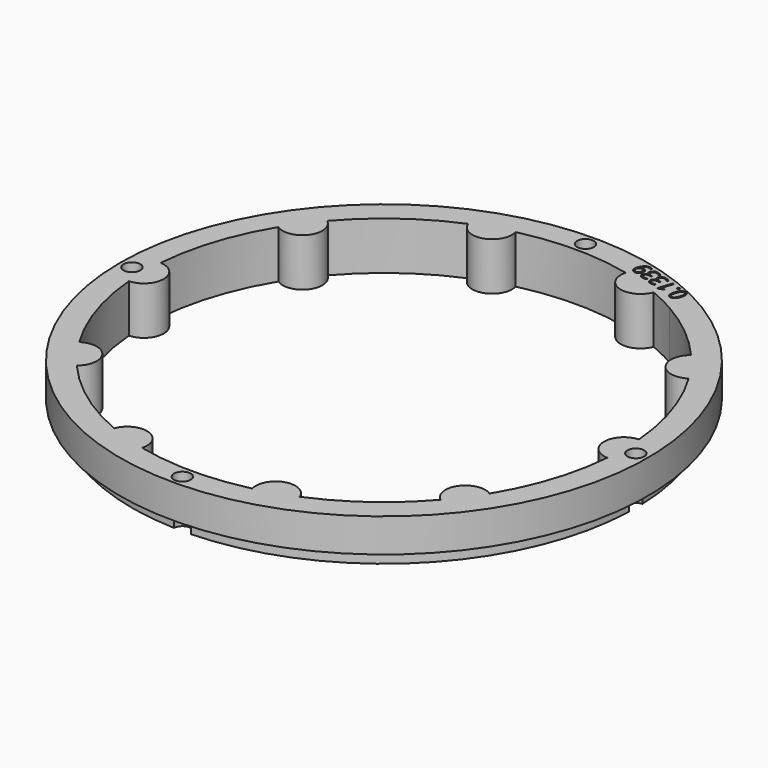
from build123d import *

# Parameters (mm, degrees)
SKETCH054_R             = 55
PAD015_DEPTH            = 10
POLARPATTERN005_COUNT   = 10
SKETCH055_R             = 55
SKETCH055_R_2           = 52.5
POCKET027_DEPTH         = 3
SKETCH056_R             = 1.75
POCKET028_DEPTH         = 321.770146
POCKET028_DEPTH_BACK    = 311.770146
POLARPATTERN006_COUNT   = 4
POCKET035_DEPTH         = 2
BODY003_ROLL_ANGLE      = 90
BODY003_PLACEMENT_ANGLE = -180


with BuildPart() as part:
    # Sketch054 → Pad015 (new body)
    with BuildSketch(Plane.XZ):
        Circle(SKETCH054_R)
        with BuildLine():
            ThreePointArc((49.831033, 4.107083), (-49.999996, 0.01996), (49.827738, -4.146866))
            ThreePointArc((49.831033, 4.107083), (45.869496, -0.018311), (49.827738, -4.146866))
        make_face(mode=Mode.SUBTRACT)
    pad015 = extrude(amount=PAD015_DEPTH)

    # PolarPattern005: Pad015 ×10 about axis
    polarpattern005_axis = Axis((0, 0, 0), (0, -1, 0))
    for i in range(1, POLARPATTERN005_COUNT):
        add(pad015.rotate(polarpattern005_axis, i * 360 / POLARPATTERN005_COUNT))

    # Sketch055 (on DatumPlane) → Pocket027 (cut)
    with BuildSketch(Plane.XZ.offset(10)):
        Circle(SKETCH055_R)
        Circle(SKETCH055_R_2, mode=Mode.SUBTRACT)
    extrude(amount=-POCKET027_DEPTH, mode=Mode.SUBTRACT)

    # Sketch056 (on DatumPlane) → Pocket028 (cut, two sides)
    with BuildSketch(Plane.XZ.offset(10)) as pocket028_sk:
        with Locations((52.5, 0)):
            Circle(SKETCH056_R)
    pocket028 = extrude(amount=-POCKET028_DEPTH, mode=Mode.SUBTRACT) + extrude(pocket028_sk.sketch, amount=POCKET028_DEPTH_BACK, mode=Mode.SUBTRACT)

    # PolarPattern006: Pocket028 ×4 about axis
    polarpattern006_axis = Axis((0, -10, 0), (0, -1, 0))
    for i in range(1, POLARPATTERN006_COUNT):
        add(pocket028.rotate(polarpattern006_axis, i * 360 / POLARPATTERN006_COUNT), mode=Mode.SUBTRACT)

    # Sketch069 (on Face2 of PolarPattern006) → Pocket035 (cut)
    with BuildSketch(Plane(origin=(0, 0, 0), x_dir=(1, 0, 0), z_dir=(0, 1, 0))):
        with BuildLine():
            add(Edge.make_bspline(
                [(-21.961227, -48.249164), (-22.074236, -48.596972), (-22.215771, -48.853462)],
                knots=[0, 0, 0, 1, 1, 1], degree=2))
            add(Edge.make_bspline(
                [(-22.215771, -48.853462), (-22.357264, -49.109822), (-22.531956, -49.262712)],
                knots=[0, 0, 0, 1, 1, 1], degree=2))
            add(Edge.make_bspline(
                [(-22.531956, -49.262712), (-22.706605, -49.415472), (-22.918021, -49.455843)],
                knots=[0, 0, 0, 1, 1, 1], degree=2))
            add(Edge.make_bspline(
                [(-22.918021, -49.455843), (-23.129437, -49.496214), (-23.380935, -49.414498)],
                knots=[0, 0, 0, 1, 1, 1], degree=2))
            add(Edge.make_bspline(
                [(-23.380935, -49.414498), (-23.698719, -49.311243), (-23.849911, -49.069854)],
                knots=[0, 0, 0, 1, 1, 1], degree=2))
            add(Edge.make_bspline(
                [(-23.849911, -49.069854), (-24.000973, -48.828508), (-23.996422, -48.466008)],
                knots=[0, 0, 0, 1, 1, 1], degree=2))
            add(Edge.make_bspline(
                [(-23.996422, -48.466008), (-23.99174, -48.103551), (-23.840638, -47.638507)],
                knots=[0, 0, 0, 1, 1, 1], degree=2))
            add(Edge.make_bspline(
                [(-23.840638, -47.638507), (-23.692112, -47.181391), (-23.492601, -46.882238)],
                knots=[0, 0, 0, 1, 1, 1], degree=2))
            add(Edge.make_bspline(
                [(-23.492601, -46.882238), (-23.292959, -46.583127), (-23.028868, -46.47351)],
                knots=[0, 0, 0, 1, 1, 1], degree=2))
            add(Edge.make_bspline(
                [(-23.028868, -46.47351), (-22.764734, -46.363764), (-22.425505, -46.473986)],
                knots=[0, 0, 0, 1, 1, 1], degree=2))
            add(Edge.make_bspline(
                [(-22.425505, -46.473986), (-22.103821, -46.578507), (-21.952057, -46.821232)],
                knots=[0, 0, 0, 1, 1, 1], degree=2))
            add(Edge.make_bspline(
                [(-21.952057, -46.821232), (-21.800251, -47.063826), (-21.805842, -47.425988)],
                knots=[0, 0, 0, 1, 1, 1], degree=2))
            add(Edge.make_bspline(
                [(-21.805842, -47.425988), (-21.811434, -47.78815), (-21.961227, -48.249164)],
                knots=[0, 0, 0, 1, 1, 1], degree=2))
        make_face()
        with BuildLine():
            add(Edge.make_bspline(
                [(-23.515055, -47.744295), (-23.644662, -48.143182), (-23.670628, -48.428745)],
                knots=[0, 0, 0, 1, 1, 1], degree=2))
            add(Edge.make_bspline(
                [(-23.670628, -48.428745), (-23.696553, -48.714177), (-23.603985, -48.890104)],
                knots=[0, 0, 0, 1, 1, 1], degree=2))
            add(Edge.make_bspline(
                [(-23.603985, -48.890104), (-23.511288, -49.066074), (-23.290983, -49.137655)],
                knots=[0, 0, 0, 1, 1, 1], degree=2))
            add(Edge.make_bspline(
                [(-23.290983, -49.137655), (-23.070679, -49.209236), (-22.89272, -49.122358)],
                knots=[0, 0, 0, 1, 1, 1], degree=2))
            add(Edge.make_bspline(
                [(-22.89272, -49.122358), (-22.71459, -49.035392), (-22.56688, -48.78953)],
                knots=[0, 0, 0, 1, 1, 1], degree=2))
            add(Edge.make_bspline(
                [(-22.56688, -48.78953), (-22.418999, -48.54358), (-22.288759, -48.142743)],
                knots=[0, 0, 0, 1, 1, 1], degree=2))
            add(Edge.make_bspline(
                [(-22.288759, -48.142743), (-22.161095, -47.749834), (-22.135509, -47.465442)],
                knots=[0, 0, 0, 1, 1, 1], degree=2))
            add(Edge.make_bspline(
                [(-22.135509, -47.465442), (-22.10988, -47.180919), (-22.200904, -47.003338)],
                knots=[0, 0, 0, 1, 1, 1], degree=2))
            add(Edge.make_bspline(
                [(-22.200904, -47.003338), (-22.291886, -46.825627), (-22.51609, -46.752778)],
                knots=[0, 0, 0, 1, 1, 1], degree=2))
            add(Edge.make_bspline(
                [(-22.51609, -46.752778), (-22.740293, -46.67993), (-22.918356, -46.770224)],
                knots=[0, 0, 0, 1, 1, 1], degree=2))
            add(Edge.make_bspline(
                [(-22.918356, -46.770224), (-23.096375, -46.860387), (-23.24197, -47.105931)],
                knots=[0, 0, 0, 1, 1, 1], degree=2))
            add(Edge.make_bspline(
                [(-23.24197, -47.105931), (-23.387391, -47.351386), (-23.515055, -47.744295)],
                knots=[0, 0, 0, 1, 1, 1], degree=2))
        make_face(mode=Mode.SUBTRACT)
        with BuildLine():
            add(Edge.make_bspline(
                [(-21.862883, -49.618629), (-21.818541, -49.482157), (-21.733588, -49.446247)],
                knots=[0, 0, 0, 1, 1, 1], degree=2))
            add(Edge.make_bspline(
                [(-21.733588, -49.446247), (-21.648594, -49.410206), (-21.553064, -49.441246)],
                knots=[0, 0, 0, 1, 1, 1], degree=2))
            add(Edge.make_bspline(
                [(-21.553064, -49.441246), (-21.453634, -49.473553), (-21.404106, -49.553302)],
                knots=[0, 0, 0, 1, 1, 1], degree=2))
            add(Edge.make_bspline(
                [(-21.404106, -49.553302), (-21.354537, -49.632921), (-21.398879, -49.769393)],
                knots=[0, 0, 0, 1, 1, 1], degree=2))
            add(Edge.make_bspline(
                [(-21.398879, -49.769393), (-21.442588, -49.903915), (-21.530799, -49.943221)],
                knots=[0, 0, 0, 1, 1, 1], degree=2))
            add(Edge.make_bspline(
                [(-21.530799, -49.943221), (-21.618968, -49.982397), (-21.718397, -49.950091)],
                knots=[0, 0, 0, 1, 1, 1], degree=2))
            add(Edge.make_bspline(
                [(-21.718397, -49.950091), (-21.813927, -49.919051), (-21.860281, -49.836166)],
                knots=[0, 0, 0, 1, 1, 1], degree=2))
            add(Edge.make_bspline(
                [(-21.860281, -49.836166), (-21.906592, -49.753151), (-21.862883, -49.618629)],
                knots=[0, 0, 0, 1, 1, 1], degree=2))
        make_face()
        with BuildLine():
            Line((-19.776238, -50.537453), (-20.092073, -50.434832))
            Line((-20.092073, -50.434832), (-19.435046, -48.412711))
            add(Edge.make_bspline(
                [(-19.435046, -48.412711), (-19.397629, -48.297555), (-19.369776, -48.214927)],
                knots=[0, 0, 0, 1, 1, 1], degree=2))
            add(Edge.make_bspline(
                [(-19.369776, -48.214927), (-19.341793, -48.132342), (-19.316425, -48.063996)],
                knots=[0, 0, 0, 1, 1, 1], degree=2))
            add(Edge.make_bspline(
                [(-19.316425, -48.063996), (-19.290926, -47.995691), (-19.261597, -47.925327)],
                knots=[0, 0, 0, 1, 1, 1], degree=2))
            add(Edge.make_bspline(
                [(-19.261597, -47.925327), (-19.342305, -47.968076), (-19.409219, -47.994904)],
                knots=[0, 0, 0, 1, 1, 1], degree=2))
            add(Edge.make_bspline(
                [(-19.409219, -47.994904), (-19.476132, -48.021731), (-19.57502, -48.06073)],
                knots=[0, 0, 0, 1, 1, 1], degree=2))
            Line((-19.57502, -48.06073), (-19.985529, -48.216317))
            Line((-19.985529, -48.216317), (-20.083562, -47.940902))
            Line((-20.083562, -47.940902), (-19.118232, -47.596866))
            Line((-19.118232, -47.596866), (-18.849187, -47.684284))
            Line((-18.849187, -47.684284), (-19.776238, -50.537453))
        make_face()
        with BuildLine():
            add(Edge.make_bspline(
                [(-16.22887, -49.272256), (-16.291329, -49.464486), (-16.411276, -49.581565)],
                knots=[0, 0, 0, 1, 1, 1], degree=2))
            add(Edge.make_bspline(
                [(-16.411276, -49.581565), (-16.531224, -49.698644), (-16.692809, -49.74486)],
                knots=[0, 0, 0, 1, 1, 1], degree=2))
            add(Edge.make_bspline(
                [(-16.692809, -49.74486), (-16.854352, -49.790946), (-17.045201, -49.768021)],
                knots=[0, 0, 0, 1, 1, 1], degree=2))
            Line((-17.045201, -49.768021), (-17.050269, -49.783617))
            add(Edge.make_bspline(
                [(-17.050269, -49.783617), (-16.724975, -49.936731), (-16.611547, -50.167861)],
                knots=[0, 0, 0, 1, 1, 1], degree=2))
            add(Edge.make_bspline(
                [(-16.611547, -50.167861), (-16.497988, -50.399034), (-16.5906, -50.684065)],
                knots=[0, 0, 0, 1, 1, 1], degree=2))
            add(Edge.make_bspline(
                [(-16.5906, -50.684065), (-16.671177, -50.932054), (-16.849406, -51.085662)],
                knots=[0, 0, 0, 1, 1, 1], degree=2))
            add(Edge.make_bspline(
                [(-16.849406, -51.085662), (-17.027506, -51.239313), (-17.301617, -51.27009)],
                knots=[0, 0, 0, 1, 1, 1], degree=2))
            add(Edge.make_bspline(
                [(-17.301617, -51.27009), (-17.575556, -51.300779), (-17.947929, -51.179788)],
                knots=[0, 0, 0, 1, 1, 1], degree=2))
            add(Edge.make_bspline(
                [(-17.947929, -51.179788), (-18.174082, -51.106307), (-18.354442, -51.007757)],
                knots=[0, 0, 0, 1, 1, 1], degree=2))
            add(Edge.make_bspline(
                [(-18.354442, -51.007757), (-18.534715, -50.909379), (-18.68294, -50.768535)],
                knots=[0, 0, 0, 1, 1, 1], degree=2))
            Line((-18.68294, -50.768535), (-18.584119, -50.464398))
            add(Edge.make_bspline(
                [(-18.584119, -50.464398), (-18.435212, -50.609775), (-18.24278, -50.727335)],
                knots=[0, 0, 0, 1, 1, 1], degree=2))
            add(Edge.make_bspline(
                [(-18.24278, -50.727335), (-18.050305, -50.844765), (-17.855345, -50.908112)],
                knots=[0, 0, 0, 1, 1, 1], degree=2))
            add(Edge.make_bspline(
                [(-17.855345, -50.908112), (-17.465426, -51.034804), (-17.241446, -50.935864)],
                knots=[0, 0, 0, 1, 1, 1], degree=2))
            add(Edge.make_bspline(
                [(-17.241446, -50.935864), (-17.017466, -50.836925), (-16.929922, -50.56749)],
                knots=[0, 0, 0, 1, 1, 1], degree=2))
            add(Edge.make_bspline(
                [(-16.929922, -50.56749), (-16.869616, -50.381889), (-16.929065, -50.236265)],
                knots=[0, 0, 0, 1, 1, 1], degree=2))
            add(Edge.make_bspline(
                [(-16.929065, -50.236265), (-16.988384, -50.090683), (-17.151346, -49.978388)],
                knots=[0, 0, 0, 1, 1, 1], degree=2))
            add(Edge.make_bspline(
                [(-17.151346, -49.978388), (-17.314135, -49.866005), (-17.567582, -49.783655)],
                knots=[0, 0, 0, 1, 1, 1], degree=2))
            Line((-17.567582, -49.783655), (-17.852223, -49.691169))
            Line((-17.852223, -49.691169), (-17.762272, -49.414327))
            Line((-17.762272, -49.414327), (-17.475681, -49.507446))
            add(Edge.make_bspline(
                [(-17.475681, -49.507446), (-17.243679, -49.582828), (-17.059522, -49.566649)],
                knots=[0, 0, 0, 1, 1, 1], degree=2))
            add(Edge.make_bspline(
                [(-17.059522, -49.566649), (-16.875324, -49.550341), (-16.750039, -49.453101)],
                knots=[0, 0, 0, 1, 1, 1], degree=2))
            add(Edge.make_bspline(
                [(-16.750039, -49.453101), (-16.624625, -49.355904), (-16.56905, -49.184859)],
                knots=[0, 0, 0, 1, 1, 1], degree=2))
            add(Edge.make_bspline(
                [(-16.56905, -49.184859), (-16.498186, -48.966764), (-16.603815, -48.800963)],
                knots=[0, 0, 0, 1, 1, 1], degree=2))
            add(Edge.make_bspline(
                [(-16.603815, -48.800963), (-16.709444, -48.635161), (-16.957043, -48.554711)],
                knots=[0, 0, 0, 1, 1, 1], degree=2))
            add(Edge.make_bspline(
                [(-16.957043, -48.554711), (-17.109112, -48.505301), (-17.244021, -48.495953)],
                knots=[0, 0, 0, 1, 1, 1], degree=2))
            add(Edge.make_bspline(
                [(-17.244021, -48.495953), (-17.378931, -48.486605), (-17.505845, -48.50572)],
                knots=[0, 0, 0, 1, 1, 1], degree=2))
            add(Edge.make_bspline(
                [(-17.505845, -48.50572), (-17.632759, -48.524835), (-17.765375, -48.561496)],
                knots=[0, 0, 0, 1, 1, 1], degree=2))
            Line((-17.765375, -48.561496), (-17.856926, -48.286031))
            add(Edge.make_bspline(
                [(-17.856926, -48.286031), (-17.661684, -48.215833), (-17.408975, -48.20095)],
                knots=[0, 0, 0, 1, 1, 1], degree=2))
            add(Edge.make_bspline(
                [(-17.408975, -48.20095), (-17.156265, -48.186066), (-16.871624, -48.278551)],
                knots=[0, 0, 0, 1, 1, 1], degree=2))
            add(Edge.make_bspline(
                [(-16.871624, -48.278551), (-16.434914, -48.420447), (-16.281553, -48.691423)],
                knots=[0, 0, 0, 1, 1, 1], degree=2))
            add(Edge.make_bspline(
                [(-16.281553, -48.691423), (-16.128191, -48.9624), (-16.22887, -49.272256)],
                knots=[0, 0, 0, 1, 1, 1], degree=2))
        make_face()
        with BuildLine():
            add(Edge.make_bspline(
                [(-13.949661, -50.012815), (-14.012121, -50.205045), (-14.132068, -50.322125)],
                knots=[0, 0, 0, 1, 1, 1], degree=2))
            add(Edge.make_bspline(
                [(-14.132068, -50.322125), (-14.252015, -50.439204), (-14.4136, -50.48542)],
                knots=[0, 0, 0, 1, 1, 1], degree=2))
            add(Edge.make_bspline(
                [(-14.4136, -50.48542), (-14.575143, -50.531506), (-14.765993, -50.50858)],
                knots=[0, 0, 0, 1, 1, 1], degree=2))
            Line((-14.765993, -50.50858), (-14.771061, -50.524177))
            add(Edge.make_bspline(
                [(-14.771061, -50.524177), (-14.445767, -50.677291), (-14.332338, -50.908421)],
                knots=[0, 0, 0, 1, 1, 1], degree=2))
            add(Edge.make_bspline(
                [(-14.332338, -50.908421), (-14.21878, -51.139594), (-14.311392, -51.424625)],
                knots=[0, 0, 0, 1, 1, 1], degree=2))
            add(Edge.make_bspline(
                [(-14.311392, -51.424625), (-14.391968, -51.672613), (-14.570198, -51.826222)],
                knots=[0, 0, 0, 1, 1, 1], degree=2))
            add(Edge.make_bspline(
                [(-14.570198, -51.826222), (-14.748298, -51.979872), (-15.022409, -52.01065)],
                knots=[0, 0, 0, 1, 1, 1], degree=2))
            add(Edge.make_bspline(
                [(-15.022409, -52.01065), (-15.296348, -52.041339), (-15.668721, -51.920348)],
                knots=[0, 0, 0, 1, 1, 1], degree=2))
            add(Edge.make_bspline(
                [(-15.668721, -51.920348), (-15.894874, -51.846866), (-16.075234, -51.748317)],
                knots=[0, 0, 0, 1, 1, 1], degree=2))
            add(Edge.make_bspline(
                [(-16.075234, -51.748317), (-16.255506, -51.649939), (-16.403731, -51.509095)],
                knots=[0, 0, 0, 1, 1, 1], degree=2))
            Line((-16.403731, -51.509095), (-16.304911, -51.204958))
            add(Edge.make_bspline(
                [(-16.304911, -51.204958), (-16.156004, -51.350335), (-15.963571, -51.467895)],
                knots=[0, 0, 0, 1, 1, 1], degree=2))
            add(Edge.make_bspline(
                [(-15.963571, -51.467895), (-15.771097, -51.585325), (-15.576137, -51.648671)],
                knots=[0, 0, 0, 1, 1, 1], degree=2))
            add(Edge.make_bspline(
                [(-15.576137, -51.648671), (-15.186218, -51.775364), (-14.962238, -51.676424)],
                knots=[0, 0, 0, 1, 1, 1], degree=2))
            add(Edge.make_bspline(
                [(-14.962238, -51.676424), (-14.738258, -51.577484), (-14.650713, -51.30805)],
                knots=[0, 0, 0, 1, 1, 1], degree=2))
            add(Edge.make_bspline(
                [(-14.650713, -51.30805), (-14.590408, -51.122448), (-14.649857, -50.976825)],
                knots=[0, 0, 0, 1, 1, 1], degree=2))
            add(Edge.make_bspline(
                [(-14.649857, -50.976825), (-14.709176, -50.831243), (-14.872137, -50.718948)],
                knots=[0, 0, 0, 1, 1, 1], degree=2))
            add(Edge.make_bspline(
                [(-14.872137, -50.718948), (-15.034926, -50.606565), (-15.288374, -50.524215)],
                knots=[0, 0, 0, 1, 1, 1], degree=2))
            Line((-15.288374, -50.524215), (-15.573015, -50.431729))
            Line((-15.573015, -50.431729), (-15.483063, -50.154886))
            Line((-15.483063, -50.154886), (-15.196473, -50.248005))
            add(Edge.make_bspline(
                [(-15.196473, -50.248005), (-14.964471, -50.323387), (-14.780314, -50.307209)],
                knots=[0, 0, 0, 1, 1, 1], degree=2))
            add(Edge.make_bspline(
                [(-14.780314, -50.307209), (-14.596115, -50.290901), (-14.470831, -50.193661)],
                knots=[0, 0, 0, 1, 1, 1], degree=2))
            add(Edge.make_bspline(
                [(-14.470831, -50.193661), (-14.345417, -50.096463), (-14.289841, -49.925419)],
                knots=[0, 0, 0, 1, 1, 1], degree=2))
            add(Edge.make_bspline(
                [(-14.289841, -49.925419), (-14.218978, -49.707324), (-14.324607, -49.541522)],
                knots=[0, 0, 0, 1, 1, 1], degree=2))
            add(Edge.make_bspline(
                [(-14.324607, -49.541522), (-14.430236, -49.375721), (-14.677835, -49.295271)],
                knots=[0, 0, 0, 1, 1, 1], degree=2))
            add(Edge.make_bspline(
                [(-14.677835, -49.295271), (-14.829903, -49.245861), (-14.964813, -49.236513)],
                knots=[0, 0, 0, 1, 1, 1], degree=2))
            add(Edge.make_bspline(
                [(-14.964813, -49.236513), (-15.099722, -49.227165), (-15.226637, -49.24628)],
                knots=[0, 0, 0, 1, 1, 1], degree=2))
            add(Edge.make_bspline(
                [(-15.226637, -49.24628), (-15.353551, -49.265395), (-15.486167, -49.302056)],
                knots=[0, 0, 0, 1, 1, 1], degree=2))
            Line((-15.486167, -49.302056), (-15.577718, -49.026591))
            add(Edge.make_bspline(
                [(-15.577718, -49.026591), (-15.382476, -48.956393), (-15.129766, -48.941509)],
                knots=[0, 0, 0, 1, 1, 1], degree=2))
            add(Edge.make_bspline(
                [(-15.129766, -48.941509), (-14.877057, -48.926626), (-14.592416, -49.019111)],
                knots=[0, 0, 0, 1, 1, 1], degree=2))
            add(Edge.make_bspline(
                [(-14.592416, -49.019111), (-14.155706, -49.161007), (-14.002345, -49.431983)],
                knots=[0, 0, 0, 1, 1, 1], degree=2))
            add(Edge.make_bspline(
                [(-14.002345, -49.431983), (-13.848983, -49.702959), (-13.949661, -50.012815)],
                knots=[0, 0, 0, 1, 1, 1], degree=2))
        make_face()
        with BuildLine():
            add(Edge.make_bspline(
                [(-11.739701, -51.337985), (-11.824205, -51.598061), (-11.940407, -51.83275)],
                knots=[0, 0, 0, 1, 1, 1], degree=2))
            add(Edge.make_bspline(
                [(-11.940407, -51.83275), (-12.056437, -52.067351), (-12.212517, -52.252297)],
                knots=[0, 0, 0, 1, 1, 1], degree=2))
            add(Edge.make_bspline(
                [(-12.212517, -52.252297), (-12.368426, -52.437155), (-12.568708, -52.549399)],
                knots=[0, 0, 0, 1, 1, 1], degree=2))
            add(Edge.make_bspline(
                [(-12.568708, -52.549399), (-12.768948, -52.661512), (-13.021803, -52.679941)],
                knots=[0, 0, 0, 1, 1, 1], degree=2))
            add(Edge.make_bspline(
                [(-13.021803, -52.679941), (-13.274486, -52.698282), (-13.584472, -52.597561)],
                knots=[0, 0, 0, 1, 1, 1], degree=2))
            add(Edge.make_bspline(
                [(-13.584472, -52.597561), (-13.668305, -52.570322), (-13.772027, -52.524694)],
                knots=[0, 0, 0, 1, 1, 1], degree=2))
            add(Edge.make_bspline(
                [(-13.772027, -52.524694), (-13.875792, -52.479196), (-13.937694, -52.437529)],
                knots=[0, 0, 0, 1, 1, 1], degree=2))
            Line((-13.937694, -52.437529), (-13.846475, -52.156787))
            add(Edge.make_bspline(
                [(-13.846475, -52.156787), (-13.782575, -52.20557), (-13.689867, -52.25193)],
                knots=[0, 0, 0, 1, 1, 1], degree=2))
            add(Edge.make_bspline(
                [(-13.689867, -52.25193), (-13.597117, -52.29816), (-13.503537, -52.328566)],
                knots=[0, 0, 0, 1, 1, 1], degree=2))
            add(Edge.make_bspline(
                [(-13.503537, -52.328566), (-13.138962, -52.447024), (-12.879129, -52.357147)],
                knots=[0, 0, 0, 1, 1, 1], degree=2))
            add(Edge.make_bspline(
                [(-12.879129, -52.357147), (-12.619296, -52.26727), (-12.43953, -52.025789)],
                knots=[0, 0, 0, 1, 1, 1], degree=2))
            add(Edge.make_bspline(
                [(-12.43953, -52.025789), (-12.259763, -51.784308), (-12.13797, -51.449268)],
                knots=[0, 0, 0, 1, 1, 1], degree=2))
            Line((-12.13797, -51.449268), (-12.161365, -51.441667))
            add(Edge.make_bspline(
                [(-12.161365, -51.441667), (-12.250259, -51.516244), (-12.370556, -51.564523)],
                knots=[0, 0, 0, 1, 1, 1], degree=2))
            add(Edge.make_bspline(
                [(-12.370556, -51.564523), (-12.49068, -51.612715), (-12.640743, -51.616836)],
                knots=[0, 0, 0, 1, 1, 1], degree=2))
            add(Edge.make_bspline(
                [(-12.640743, -51.616836), (-12.790764, -51.620828), (-12.970127, -51.562549)],
                knots=[0, 0, 0, 1, 1, 1], degree=2))
            add(Edge.make_bspline(
                [(-12.970127, -51.562549), (-13.217726, -51.482099), (-13.369045, -51.320707)],
                knots=[0, 0, 0, 1, 1, 1], degree=2))
            add(Edge.make_bspline(
                [(-13.369045, -51.320707), (-13.520235, -51.159357), (-13.559856, -50.932809)],
                knots=[0, 0, 0, 1, 1, 1], degree=2))
            add(Edge.make_bspline(
                [(-13.559856, -50.932809), (-13.599306, -50.706173), (-13.510494, -50.43284)],
                knots=[0, 0, 0, 1, 1, 1], degree=2))
            add(Edge.make_bspline(
                [(-13.510494, -50.43284), (-13.414673, -50.137931), (-13.232533, -49.958579)],
                knots=[0, 0, 0, 1, 1, 1], degree=2))
            add(Edge.make_bspline(
                [(-13.232533, -49.958579), (-13.050263, -49.779269), (-12.809455, -49.728043)],
                knots=[0, 0, 0, 1, 1, 1], degree=2))
            add(Edge.make_bspline(
                [(-12.809455, -49.728043), (-12.568605, -49.676687), (-12.293711, -49.766005)],
                knots=[0, 0, 0, 1, 1, 1], degree=2))
            add(Edge.make_bspline(
                [(-12.293711, -49.766005), (-12.083155, -49.834419), (-11.933748, -49.971624)],
                knots=[0, 0, 0, 1, 1, 1], degree=2))
            add(Edge.make_bspline(
                [(-11.933748, -49.971624), (-11.784298, -50.108699), (-11.70649, -50.31015)],
                knots=[0, 0, 0, 1, 1, 1], degree=2))
            add(Edge.make_bspline(
                [(-11.70649, -50.31015), (-11.628552, -50.511644), (-11.633725, -50.769476)],
                knots=[0, 0, 0, 1, 1, 1], degree=2))
            add(Edge.make_bspline(
                [(-11.633725, -50.769476), (-11.638727, -51.027219), (-11.739701, -51.337985)],
                knots=[0, 0, 0, 1, 1, 1], degree=2))
        make_face()
        with BuildLine():
            add(Edge.make_bspline(
                [(-12.38303, -50.040898), (-12.642326, -49.956648), (-12.858471, -50.074371)],
                knots=[0, 0, 0, 1, 1, 1], degree=2))
            add(Edge.make_bspline(
                [(-12.858471, -50.074371), (-13.074485, -50.192136), (-13.185595, -50.534096)],
                knots=[0, 0, 0, 1, 1, 1], degree=2))
            add(Edge.make_bspline(
                [(-13.185595, -50.534096), (-13.277615, -50.817307), (-13.192532, -51.026439)],
                knots=[0, 0, 0, 1, 1, 1], degree=2))
            add(Edge.make_bspline(
                [(-13.192532, -51.026439), (-13.107448, -51.235571), (-12.818908, -51.329323)],
                knots=[0, 0, 0, 1, 1, 1], degree=2))
            add(Edge.make_bspline(
                [(-12.818908, -51.329323), (-12.620049, -51.393936), (-12.448855, -51.361045)],
                knots=[0, 0, 0, 1, 1, 1], degree=2))
            add(Edge.make_bspline(
                [(-12.448855, -51.361045), (-12.277488, -51.328065), (-12.158602, -51.230615)],
                knots=[0, 0, 0, 1, 1, 1], degree=2))
            add(Edge.make_bspline(
                [(-12.158602, -51.230615), (-12.039586, -51.133207), (-11.997693, -51.004273)],
                knots=[0, 0, 0, 1, 1, 1], degree=2))
            add(Edge.make_bspline(
                [(-11.997693, -51.004273), (-11.9558, -50.87534), (-11.950722, -50.730134)],
                knots=[0, 0, 0, 1, 1, 1], degree=2))
            add(Edge.make_bspline(
                [(-11.950722, -50.730134), (-11.945472, -50.58484), (-11.986968, -50.447205)],
                knots=[0, 0, 0, 1, 1, 1], degree=2))
            add(Edge.make_bspline(
                [(-11.986968, -50.447205), (-12.028423, -50.30944), (-12.124839, -50.201523)],
                knots=[0, 0, 0, 1, 1, 1], degree=2))
            add(Edge.make_bspline(
                [(-12.124839, -50.201523), (-12.221213, -50.093476), (-12.38303, -50.040898)],
                knots=[0, 0, 0, 1, 1, 1], degree=2))
        make_face(mode=Mode.SUBTRACT)
    extrude(amount=-POCKET035_DEPTH, mode=Mode.SUBTRACT)


with BuildPart() as part_1:
    # Body003 roll: moved
    add(part.part.rotate(Axis((0, 0, 0), (1, 0, 0)), BODY003_ROLL_ANGLE))


with BuildPart() as part_2:
    # Body003 placement: moved
    add(part_1.part.moved(Location((-1.52, 0, 32))).rotate(Axis((-1.52, 0, 32), (0, 0, 1)), BODY003_PLACEMENT_ANGLE))


solid = part_2.part
